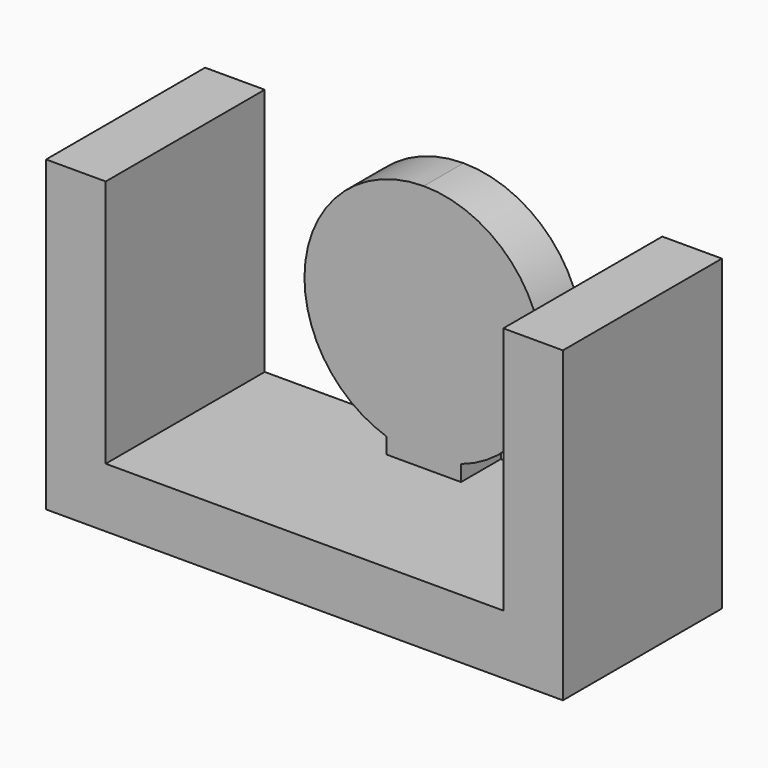
from build123d import *

# Parameters (mm, degrees)
F1_DEPTH = 5
F3_DEPTH = 1.9
F3_TAPER = 10
F5_DEPTH = 1
F6_W     = 8
F6_H     = 3.4583588084
F7_DEPTH = 25
F8_W     = 14.479
F8_H     = 1
F9_DEPTH = 25


with BuildPart() as f1:
    # F0 (on Front) → F1 (new body)
    with BuildSketch(Plane.XZ):
        Polygon((0, 5), (0, 0), (0, -1.2), (10.4, -1.2), (10.4, 0), (10.4, 5), (9.2, 5), (9.2, 0), (1.2, 0), (1.2, 5), align=None)
    extrude(amount=F1_DEPTH)

    # F2 (on face) → F3 (join)
    with BuildSketch(Plane.XY):
        with BuildLine():
            ThreePointArc((5.9758246596, -2.5), (5.7485908778, -1.9514091222), (5.2, -1.7241753404))
            Line((5.2, -1.7241753404), (5.2, -3.2758246596))
            ThreePointArc((5.2, -3.2758246596), (5.7485908778, -3.0485908778), (5.9758246596, -2.5))
        make_face()
        with BuildLine():
            Line((5.2, -3.2758246596), (5.2, -1.7241753404))
            ThreePointArc((5.2, -1.7241753404), (4.4241753404, -2.5), (5.2, -3.2758246596))
        make_face()
    extrude(amount=F3_DEPTH, taper=F3_TAPER)

    # F4 (on face) → F5 (join)
    with BuildSketch(Plane(origin=(0, 0, 0), x_dir=(-1, 0, 0), z_dir=(0, 1, 0))):
        with BuildLine():
            ThreePointArc((-4.45, 0.320197377), (-3.2557777905, 1.1928752721), (-2.8, 2.6))
            ThreePointArc((-2.8, 2.6), (-3.5029437252, 4.2970562748), (-5.2, 5))
            ThreePointArc((-5.2, 5), (-7.5697601456, 2.9797852714), (-5.95, 0.320197377))
            ThreePointArc((-5.95, 0.320197377), (-5.2, 0.2), (-4.45, 0.320197377))
        make_face()
        with BuildLine():
            Line((-4.45, 0), (-4.45, 0.320197377))
            ThreePointArc((-4.45, 0.320197377), (-5.2, 0.2), (-5.95, 0.320197377))
            Line((-5.95, 0.320197377), (-5.95, 0))
            Line((-5.95, 0), (-4.45, 0))
        make_face()
    extrude(amount=-F5_DEPTH)

    # F6 (on face) → F7 (cut)
    with BuildSketch(Plane.XY):
        with Locations((5.2, -3.2708205958)):
            Rectangle(F6_W, F6_H)
    extrude(amount=F7_DEPTH, mode=Mode.SUBTRACT)

    # F8 (on face) → F9 (cut)
    with BuildSketch(Plane.XY.offset(5)):
        with Locations((3.1605, -4.5)):
            Rectangle(F8_W, F8_H)
    extrude(amount=-F9_DEPTH, mode=Mode.SUBTRACT)


solid = f1.part
